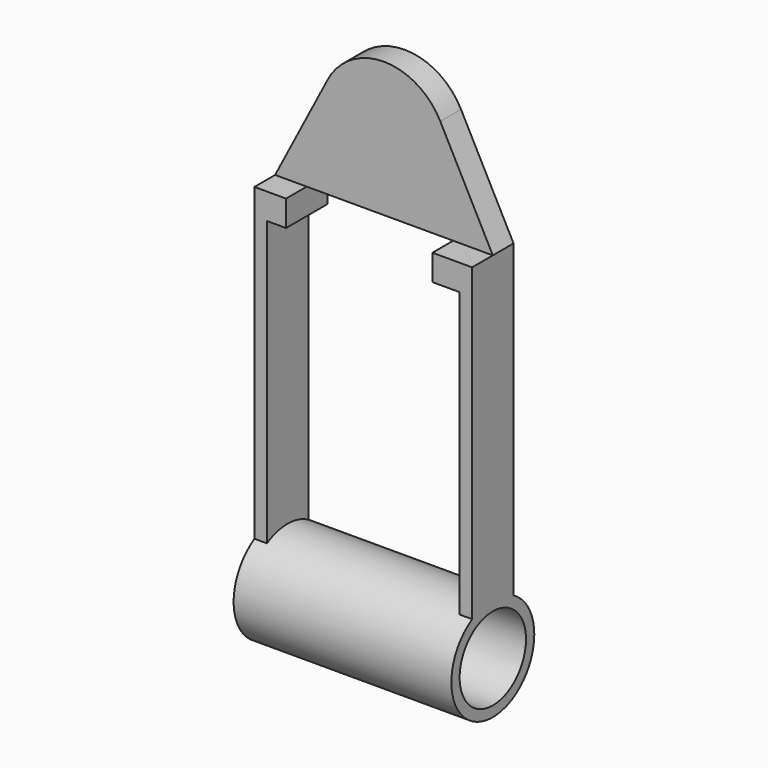
from build123d import *

# Parameters (mm, degrees)
F0_W     = 53.34
F0_H     = 69.102946
F1_DEPTH = 6.35
F3_DEPTH = 25.4
F4_W     = 6.35
F4_H     = 38.1
F5_DEPTH = 63.5
F6_R     = 12.7
F7_DEPTH = 53.34
F8_R     = 10.16
F9_DEPTH = 53.34


with BuildPart() as f1:
    # F0 (on Front) → F1 (new body, symmetric)
    with BuildSketch(Plane.XZ):
        with BuildLine():
            Line((26.67, 37.667938), (13.800602, 62.397646))
            ThreePointArc((13.800602, 62.397646), (0, 70.77328), (-13.800602, 62.397646))
            Line((-13.800602, 62.397646), (-26.67, 37.667938))
            Line((-26.67, 37.667938), (-26.67, 30.885875))
            Line((-26.67, 30.885875), (26.67, 30.885875))
            Line((26.67, 30.885875), (26.67, 37.667938))
        make_face()
        with Locations((0, -3.665598)):
            Rectangle(F0_W, F0_H)
    extrude(amount=F1_DEPTH, both=True)

    # F2 (on face) → F3 (cut)
    with BuildSketch(Plane(origin=(0, 6.35, 0), x_dir=(-1, 0, 0), z_dir=(0, 1, 0))):
        Polygon((-23.622, 31.317938), (-23.622, -38.217071), (23.622, -38.217071), (23.622, 31.317938), (18.919615, 31.317938), (18.919615, 37.667938), (-16.959142, 37.667938), (-16.959142, 31.317938), align=None)
    extrude(amount=-F3_DEPTH, mode=Mode.SUBTRACT)

    # F4 (on face) → F5 (cut)
    with BuildSketch(Plane.YZ.offset(26.67)):
        with Locations((-3.175, 56.717938)):
            Rectangle(F4_W, F4_H)
    extrude(amount=-F5_DEPTH, mode=Mode.SUBTRACT)

    # F6 (on face) → F7 (join)
    with BuildSketch(Plane.YZ.offset(26.67)):
        with Locations((0, -49.258824)):
            Circle(F6_R)
    extrude(amount=-F7_DEPTH)

    # F8 (on face) → F9 (cut)
    with BuildSketch(Plane.YZ.offset(26.67)):
        with Locations((0, -49.258824)):
            Circle(F8_R)
    extrude(amount=-F9_DEPTH, mode=Mode.SUBTRACT)


solid = f1.part
